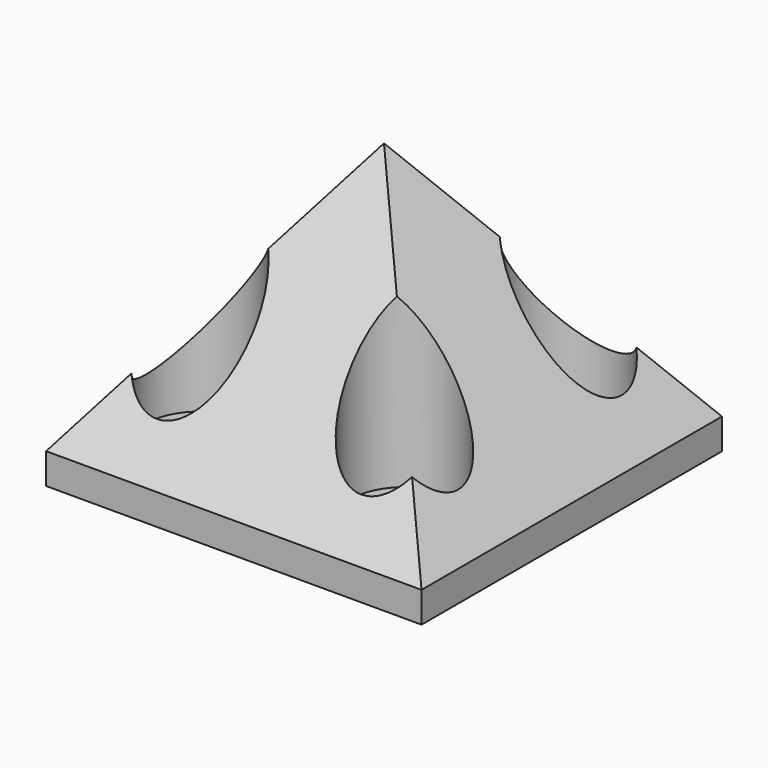
from build123d import *

# Parameters (mm, degrees)
F0_W           = 36.7
F0_H           = 36.7
F0_R           = 5.25
F0_R_2         = 2.65
F1_DEPTH       = 25
F3_DEPTH       = 36.701
F5_DEPTH       = 43.2
F6_DEPTH       = 3
F9_D           = 5.3
F9_DEPTH       = 55
F9_CBORE_D     = 10.5
F9_CBORE_DEPTH = 50
F9_TIP         = 1.5922806404


with BuildPart() as f1:
    # F0 (on Top) → F1 (new body)
    with BuildSketch(Plane.XY):
        with Locations((-2.6058288604, -28.3063627124)):
            Rectangle(F0_W, F0_H)
        with Locations((-12.6058288604, -38.3063627124)):
            Circle(F0_R, mode=Mode.SUBTRACT)
        with Locations((7.3941711396, -38.3063627124)):
            Circle(F0_R, mode=Mode.SUBTRACT)
        with Locations((-12.6058288604, -18.3063627124)):
            Circle(F0_R, mode=Mode.SUBTRACT)
        with Locations((7.3941711396, -18.3063627124)):
            Circle(F0_R, mode=Mode.SUBTRACT)
        with Locations((-12.6058288604, -38.3063627124)):
            Circle(F0_R)
        with Locations((-12.6058288604, -38.3063627124)):
            Circle(F0_R_2, mode=Mode.SUBTRACT)
        with Locations((-12.6058288604, -38.3063627124)):
            Circle(F0_R_2)
        with Locations((7.3941711396, -38.3063627124)):
            Circle(F0_R)
        with Locations((7.3941711396, -38.3063627124)):
            Circle(F0_R_2, mode=Mode.SUBTRACT)
        with Locations((7.3941711396, -38.3063627124)):
            Circle(F0_R_2)
        with Locations((7.3941711396, -18.3063627124)):
            Circle(F0_R)
        with Locations((7.3941711396, -18.3063627124)):
            Circle(F0_R_2, mode=Mode.SUBTRACT)
        with Locations((7.3941711396, -18.3063627124)):
            Circle(F0_R_2)
        with Locations((-12.6058288604, -18.3063627124)):
            Circle(F0_R)
        with Locations((-12.6058288604, -18.3063627124)):
            Circle(F0_R_2, mode=Mode.SUBTRACT)
        with Locations((-12.6058288604, -18.3063627124)):
            Circle(F0_R_2)
    extrude(amount=F1_DEPTH)

    # F2 (on face) → F3 (cut, through all)
    with BuildSketch(Plane.XZ.offset(46.6563627124)):
        Polygon((-20.9558288604, 0), (-2.6058288604, 25), (-20.9558288604, 25), align=None)
        Polygon((15.7441711396, 25), (-2.6058288604, 25), (15.7441711396, 0), align=None)
    extrude(amount=-F3_DEPTH, mode=Mode.SUBTRACT)

    # F4 (on Right) → F5 (cut, symmetric)
    with BuildSketch(Plane.YZ):
        Polygon((-46.6563627124, 0), (-28.3063627124, 25), (-46.6563627124, 25), align=None)
        Polygon((-9.9563627124, 25), (-28.3063627124, 25), (-9.9563627124, 0), align=None)
    extrude(amount=F5_DEPTH, both=True, mode=Mode.SUBTRACT)

    # F6 (add): a face of the model
    f6_faces = [f1.faces().sort_by_distance(p)[0] for p in [
        (-2.6058288604, -28.3063627124, 0),
    ]]
    extrude(f6_faces, amount=F6_DEPTH)

    # F9
    with Locations(Plane.XY.offset(50)):
        with Locations((-12.6058288604, -38.3063627124), (-12.6058288604, -18.3063627124), (7.3941711396, -18.3063627124), (7.3941711396, -38.3063627124)):
            CounterBoreHole(F9_D / 2, F9_CBORE_D / 2, F9_CBORE_DEPTH, depth=F9_DEPTH)
            with Locations((0, 0, -(F9_DEPTH + F9_TIP / 2))):  # 118° drill point
                Cone(0, F9_D / 2, F9_TIP, mode=Mode.SUBTRACT)


solid = f1.part
